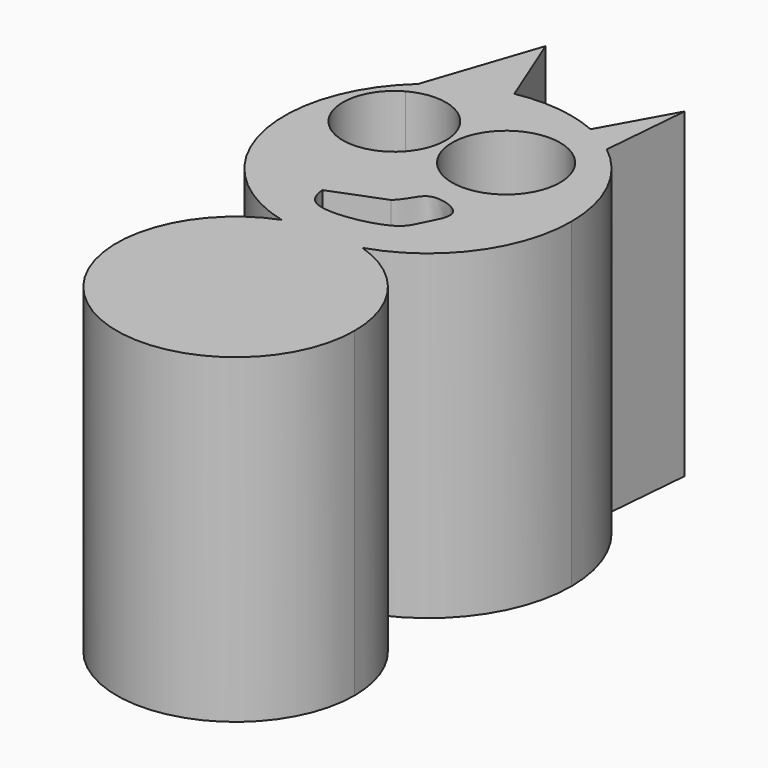
from build123d import *

# Parameters (mm, degrees)
F0_R     = 4.2716595226
F1_DEPTH = 25.4


with BuildPart() as f1:
    # F0 (on Top) → F1 (new body)
    with BuildSketch(Plane.XY):
        with BuildLine():
            ThreePointArc((-10.9032178879, 39.0753542906), (-5.1910846605, 43.1900360944), (-3.0065766643, 49.8823449016))
            ThreePointArc((-3.0065766643, 49.8823449016), (-4.1464339764, 54.8381716861), (-7.3369236625, 58.7980036742))
            ThreePointArc((-7.3369236625, 58.7980036742), (-8.5228526065, 59.6145737818), (-9.8026699948, 60.2743325659))
            ThreePointArc((-9.8026699948, 60.2743325659), (-13.0636710755, 61.1524909109), (-16.4386810378, 61.0316692151))
            ThreePointArc((-16.4386810378, 61.0316692151), (-19.3556506827, 60.0613812277), (-21.9049728752, 58.3434967593))
            ThreePointArc((-21.9049728752, 58.3434967593), (-25.3666424741, 47.1802232161), (-17.1324710859, 38.8856313537))
            ThreePointArc((-17.1324710859, 38.8856313537), (-14.0340082646, 39.511204952), (-10.9032178879, 39.0753542906))
        make_face()
        with BuildLine():
            ThreePointArc((-15.8517292987, 53.5255260112), (-21.9910405068, 50.0141212063), (-21.9049728752, 57.0861575592))
            ThreePointArc((-21.9049728752, 57.0861575592), (-17.8600920101, 57.0369308162), (-15.8517292987, 53.5255260112))
        make_face(mode=Mode.SUBTRACT)
        with BuildLine():
            add(Edge.make_bspline(
                [(-17.6564005526, 43.5692086307), (-17.5851070368, 42.8667576073), (-16.9535474713, 40.9989798958), (-10.7844070302, 42.18138916), (-10.2438965659, 43.9538393646), (-8.6212871203, 46.4841986619), (-11.7256242893, 47.4607807156), (-12.5423545781, 46.5653166922), (-13.0225004053, 45.6741453494), (-13.3887298348, 45.3075260974), (-13.5288280789, 45.1787779989)],
                knots=[0.049875245, 0.049875245, 0.049875245, 0.049875245, 0.1481446361, 0.3526177575, 0.4742514854, 0.6040004548, 0.7366395955, 0.8278864756, 0.9191684515, 0.9736388756, 0.9736388756, 0.9736388756, 0.9736388756], degree=3))
            add(Edge.make_bspline(
                [(-13.5288280789, 45.1787779989), (-14.9046855695, 44.642254876), (-16.2805430601, 44.1057317532), (-17.6564005506, 43.5692086304)],
                knots=[0.0056922948, 0.0056922948, 0.0056922948, 0.0056922948, 4.4359934202, 4.4359934202, 4.4359934202, 4.4359934202], degree=3))
        make_face(mode=Mode.SUBTRACT)
        with Locations((-11.0852297941, 53.5255260112)):
            Circle(F0_R, mode=Mode.SUBTRACT)
        with BuildLine():
            ThreePointArc((-9.8026699948, 60.2743325659), (-8.5228526065, 59.6145737818), (-7.3369236625, 58.7980036742))
            Line((-7.3369236625, 58.7980036742), (-6.7503172904, 65.7686516643))
            Line((-6.7503172904, 65.7686516643), (-9.8026699948, 60.2743325659))
        make_face()
        with BuildLine():
            ThreePointArc((-4.3383381323, 30.106337741), (-6.1549153148, 35.6637855382), (-10.9032178879, 39.0753542906))
            ThreePointArc((-10.9032178879, 39.0753542906), (-14.0045594414, 38.5442993199), (-17.1324710859, 38.8856313537))
            ThreePointArc((-17.1324710859, 38.8856313537), (-19.0712979296, 22.3480222929), (-4.3383381323, 30.106337741))
        make_face()
        with BuildLine():
            ThreePointArc((-17.1324710859, 38.8856313537), (-14.0045594414, 38.5442993199), (-10.9032178879, 39.0753542906))
            ThreePointArc((-10.9032178879, 39.0753542906), (-14.0340082646, 39.511204952), (-17.1324710859, 38.8856313537))
        make_face()
        with BuildLine():
            ThreePointArc((-21.9049728752, 58.3434967593), (-19.3556506827, 60.0613812277), (-16.4386810378, 61.0316692151))
            Line((-16.4386810378, 61.0316692151), (-18.9191132756, 67.2242349982))
            Line((-18.9191132756, 67.2242349982), (-21.9049728752, 58.3434967593))
        make_face()
    extrude(amount=F1_DEPTH)


solid = f1.part
